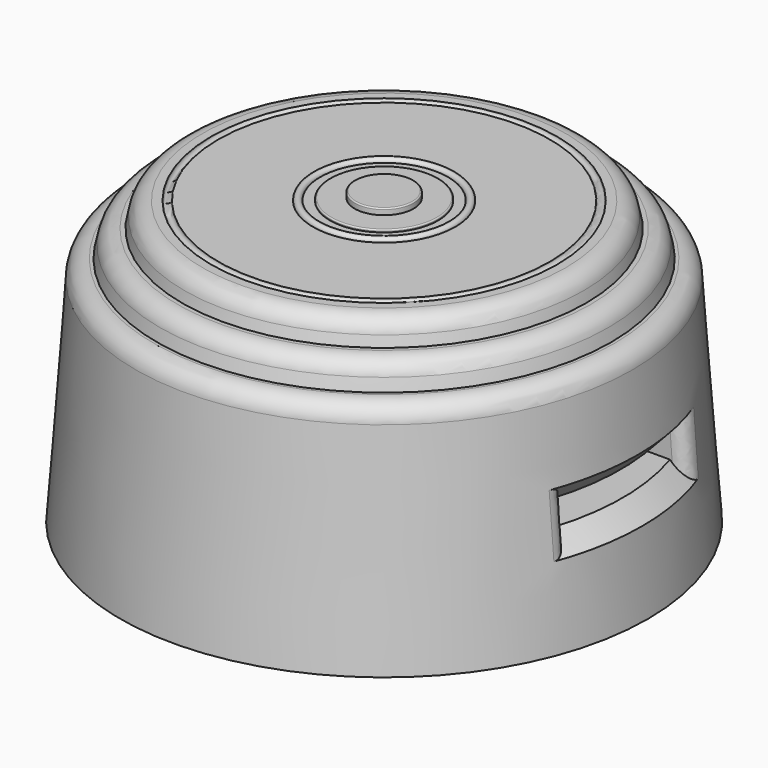
from build123d import *

# Parameters (mm, degrees)
CYLINDER004_R               = 8
CYLINDER004_DEPTH           = 10
CYLINDER003_R               = 2.4
CYLINDER003_DEPTH           = 4
FILLET008_R                 = 0.1
CYLINDER_R                  = 4.4
CYLINDER_DEPTH              = 3
FILLET003_R                 = 0.1
TORUS_R                     = 0.3
FILLET002_R                 = 1.5
TORUS001_R                  = 0.3
CYLINDER001_R               = 1.8
CYLINDER001_DEPTH           = 1.6
CYLINDER001_PITCH_ANGLE     = 90
CYLINDER001_PLACEMENT_ANGLE = 66
FILLET006_R                 = 0.5
CYLINDER002_R               = 1.8
CYLINDER002_DEPTH           = 1.6
CYLINDER002_PITCH_ANGLE     = 90
CYLINDER002_PLACEMENT_ANGLE = 66
FILLET007_R                 = 0.5
FILLET007_PLACEMENT_ANGLE   = 47
BOX_W                       = 8
BOX_H                       = 12
BOX_DEPTH                   = 2
FILLET_R                    = 1.5
CHAMFER_SIZE                = 1.5
FILLET004_R                 = 1
FILLET005_R                 = 1
FILLET001_R                 = 1.5


with BuildPart() as cilindro004:
    # Cylinder004 → Cylinder004 (new body)
    with BuildSketch(Plane.XY.offset(12.5)):
        Circle(CYLINDER004_R)
    extrude(amount=CYLINDER004_DEPTH)


with BuildPart() as fillet008:
    # Cylinder003 → Cylinder003 (new body)
    with BuildSketch(Plane.XY.offset(20.2)):
        Circle(CYLINDER003_R)
    extrude(amount=CYLINDER003_DEPTH)

    # Fillet008
    fillet008_edges = [fillet008.edges().sort_by_distance(p)[0] for p in [
        (-2.4, 0, 24.2),
    ]]
    fillet(fillet008_edges, radius=FILLET008_R)


with BuildPart() as fillet008_1:
    # Fillet008 placement: moved
    add(fillet008.part.moved(Location((0, 0, -0.5))))


with BuildPart() as fillet003:
    # Cylinder → Cylinder (new body)
    with BuildSketch(Plane.XY.offset(20.2)):
        Circle(CYLINDER_R)
    extrude(amount=CYLINDER_DEPTH)

    # Fillet003
    fillet003_edges = [fillet003.edges().sort_by_distance(p)[0] for p in [
        (-4.4, 0, 23.2),
    ]]
    fillet(fillet003_edges, radius=FILLET003_R)


with BuildPart() as toro:
    # Torus → Torus (revolve)
    with BuildSketch(Plane(origin=(0, 0, 23), x_dir=(1, 0, 0), z_dir=(0, -1, 0))):
        with Locations((13.8, 0)):
            Circle(TORUS_R)
    revolve(axis=Axis((0, 0, 23), (0, 0, 1)))


with BuildPart() as cut:
    # Cone002 → Cone002 (revolve)
    with BuildSketch(Plane(origin=(0, 0, 20.8), x_dir=(1, 0, 0), z_dir=(0, -1, 0))):
        Polygon((0, 0), (16.5, 0), (16, 2.2), (0, 2.2), align=None)
    revolve(axis=Axis((0, 0, 20.8), (0, 0, 1)))

    # Fillet002
    fillet002_edges = [cut.edges().sort_by_distance(p)[0] for p in [
        (-16, 0, 23),
    ]]
    fillet(fillet002_edges, radius=FILLET002_R)

    # Cut: cut Toro
    add(toro.part, mode=Mode.SUBTRACT)


with BuildPart() as fusion:
    # Torus001 → Torus001 (revolve)
    with BuildSketch(Plane(origin=(0, 0, 23), x_dir=(1, 0, 0), z_dir=(0, -1, 0))):
        with Locations((5.5, 0)):
            Circle(TORUS001_R)
    revolve(axis=Axis((0, 0, 23), (0, 0, 1)))

    # Fusion: union Cut
    add(cut.part)


with BuildPart() as fillet006:
    # Cylinder001 → Cylinder001 (new body)
    with BuildSketch(Plane.XY):
        Circle(CYLINDER001_R)
    extrude(amount=CYLINDER001_DEPTH)


with BuildPart() as fillet006_1:
    # Cylinder001 pitch: moved
    add(fillet006.part.rotate(Axis((0, 0, 0), (0, 1, 0)), CYLINDER001_PITCH_ANGLE))


with BuildPart() as fillet006_2:
    # Cylinder001 placement: moved
    add(fillet006_1.part.moved(Location((8, 18, 9))).rotate(Axis((8, 18, 9), (0, 0, 1)), CYLINDER001_PLACEMENT_ANGLE))

    # Fillet006
    fillet006_edges = [fillet006_2.edges().sort_by_distance(p)[0] for p in [
        (8.650779, 19.461673, 10.8),
    ]]
    fillet(fillet006_edges, radius=FILLET006_R)


with BuildPart() as fillet007:
    # Cylinder002 → Cylinder002 (new body)
    with BuildSketch(Plane.XY):
        Circle(CYLINDER002_R)
    extrude(amount=CYLINDER002_DEPTH)


with BuildPart() as fillet007_1:
    # Cylinder002 pitch: moved
    add(fillet007.part.rotate(Axis((0, 0, 0), (0, 1, 0)), CYLINDER002_PITCH_ANGLE))


with BuildPart() as fillet007_2:
    # Cylinder002 placement: moved
    add(fillet007_1.part.moved(Location((8, 18, 9))).rotate(Axis((8, 18, 9), (0, 0, 1)), CYLINDER002_PLACEMENT_ANGLE))

    # Fillet007
    fillet007_edges = [fillet007_2.edges().sort_by_distance(p)[0] for p in [
        (8.650779, 19.461673, 10.8),
    ]]
    fillet(fillet007_edges, radius=FILLET007_R)


with BuildPart() as fillet007_3:
    # Fillet007 placement: moved
    add(fillet007_2.part.rotate(Axis((0, 0, 0), (0, 0, 1)), FILLET007_PLACEMENT_ANGLE))


with BuildPart() as cubo:
    # Box → Box (new body)
    with BuildSketch(Plane(origin=(16, -6, 8), x_dir=(1, 0, 0), z_dir=(0, 0, 1))):
        with Locations((4, 6)):
            Rectangle(BOX_W, BOX_H)
    extrude(amount=BOX_DEPTH)


with BuildPart() as fusion001:
    # Cone → Cone (revolve)
    with BuildSketch(Plane.XZ):
        Polygon((0, 0), (21.5, 0), (20.15, 18.85), (0, 18.85), align=None)
    revolve(axis=Axis((0, 0, 0), (0, 0, 1)))

    # Fillet
    fillet_edges = [fusion001.edges().sort_by_distance(p)[0] for p in [
        (-20.15, 0, 18.85),
    ]]
    fillet(fillet_edges, radius=FILLET_R)

    # Cut001: cut Cubo
    add(cubo.part, mode=Mode.SUBTRACT)

    # Chamfer
    chamfer_edges = [fusion001.edges().sort_by_distance(p)[0] for p in [
        (20.706248, 3.031992, 8),
        (20.561406, 3.032451, 10),
        (20.561406, -3.032451, 10),
        (20.706248, -3.031992, 8),
    ]]
    chamfer(chamfer_edges, length=CHAMFER_SIZE)

    # Fillet004
    fillet004_edges = [fusion001.edges().sort_by_distance(p)[0] for p in [
        (20.1044, -6, 7.251917),
        (19.973715, -6, 9.000001),
        (19.842958, -6, 10.748084),
    ]]
    fillet(fillet004_edges, radius=FILLET004_R)

    # Fillet005
    fillet005_edges = [fusion001.edges().sort_by_distance(p)[0] for p in [
        (19.842958, 6, 10.748084),
        (19.973715, 6, 9.000001),
        (20.1044, 6, 7.251917),
    ]]
    fillet(fillet005_edges, radius=FILLET005_R)

    # Fusion001: union Fillet006, Fillet007
    add(fillet006_2.part)
    add(fillet007_3.part)


with BuildPart() as obj1:
    # Cone001 → Cone001 (revolve)
    with BuildSketch(Plane(origin=(0, 0, 18.8), x_dir=(1, 0, 0), z_dir=(0, -1, 0))):
        Polygon((0, 0), (18.5, 0), (18, 2.2), (0, 2.2), align=None)
    revolve(axis=Axis((0, 0, 18.8), (0, 0, 1)))

    # Fillet001
    fillet001_edges = [obj1.edges().sort_by_distance(p)[0] for p in [
        (-18, 0, 21),
    ]]
    fillet(fillet001_edges, radius=FILLET001_R)

    # Fusion002: union Fusion001
    add(fusion001.part)

    # Fusion003: union Fusion
    add(fusion.part)

    # Fusion004: union Fillet003
    add(fillet003.part)

    # Fusion005: union Fillet008
    add(fillet008_1.part)

    # Fusion006: union Cilindro004
    add(cilindro004.part)


solid = obj1.part
